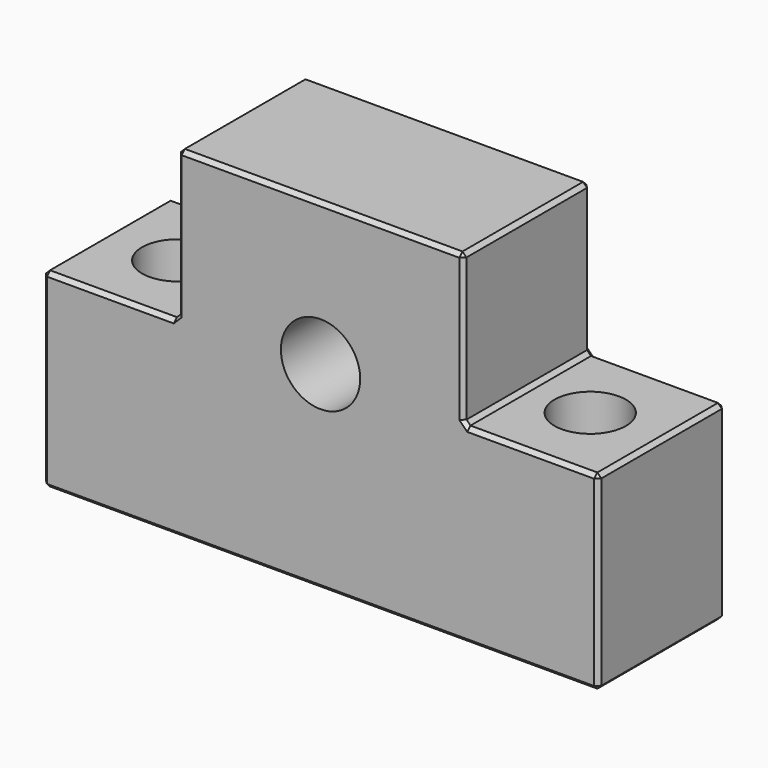
from build123d import *

# Parameters (mm, degrees)
F0_R     = 5
F1_DEPTH = 10
F2_SIZE  = 0.5
F4_D     = 9


with BuildPart() as f1:
    # F0 (on Front) → F1 (new body, symmetric)
    with BuildSketch(Plane.XZ):
        Polygon((18, 18), (0, 18), (-18, 18), (-18, -1), (-35, -1), (-35, -25), (0, -25), (35, -25), (35, -1), (18, -1), align=None)
        Circle(F0_R, mode=Mode.SUBTRACT)
    extrude(amount=F1_DEPTH, both=True)

    # F2
    f2_edges = [f1.edges().sort_by_distance(p)[0] for p in [
        (0, 10, 18),
        (-18, 0, 18),
        (0, -10, 18),
        (18, 0, 18),
        (-18, 0, -1),
        (-26.5, 10, -1),
        (-35, 0, -1),
        (-26.5, -10, -1),
        (-18, 10, 8.5),
        (-18, -10, 8.5),
        (-35, 10, -13),
        (-35, 0, -25),
        (-35, -10, -13),
        (35, 0, -25),
        (35, 10, -13),
        (35, 0, -1),
        (35, -10, -13),
        (18, 10, 8.5),
        (18, -10, 8.5),
        (18, 0, -1),
        (26.5, 10, -1),
        (26.5, -10, -1),
        (0, 10, -25),
        (0, -10, -25),
    ]]
    chamfer(f2_edges, length=F2_SIZE)

    # F4 (through all)
    with Locations(Plane(origin=(0, 0, -25), x_dir=(1, 0, 0), z_dir=(0, 0, -1))):
        with Locations((-26, 0), (26, 0)):
            Hole(F4_D / 2)


solid = f1.part
